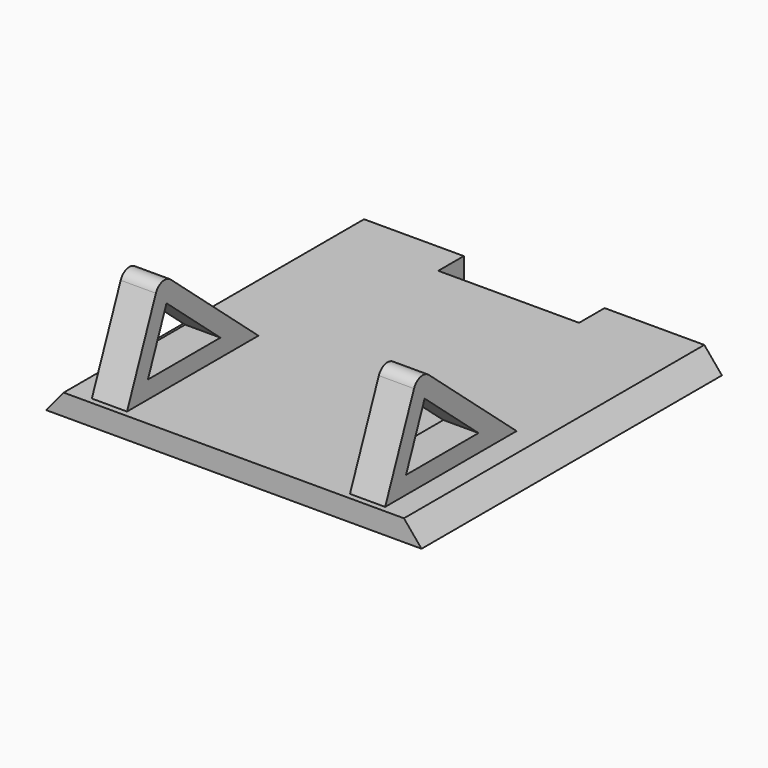
from build123d import *

# Parameters (mm, degrees)
F3_DEPTH = 16
F4_W     = 12
F4_H     = 2.84
F5_DEPTH = 25
F1_DEPTH = 12.5
F6_DEPTH = 9.5


with BuildPart() as f3:
    # F2 (on Front) → F3 (new body, symmetric)
    with BuildSketch(Plane.XZ):
        Polygon((0, 1.8), (0, 0), (16, 0), (14.5, 1.8), align=None)
        Polygon((-16, 0), (0, 0), (0, 1.8), (-14.5, 1.8), align=None)
    extrude(amount=F3_DEPTH, both=True)

    # F4 (on Top) → F5 (cut)
    with BuildSketch(Plane.XY):
        with Locations((0, 14.7)):
            Rectangle(F4_W, F4_H)
    extrude(amount=F5_DEPTH, mode=Mode.SUBTRACT)

    # F0 (on Right) → F1 (join, symmetric)
    with BuildSketch(Plane.YZ):
        with BuildLine():
            Line((-12.426555, 9.427268), (-15.5, 1.8))
            Line((-15.5, 1.8), (-1.5, 1.8))
            Line((-1.5, 1.8), (-10.848235, 9.812773))
            ThreePointArc((-10.848235, 9.812773), (-11.736301, 10.024959), (-12.426555, 9.427268))
        make_face()
        Polygon((-13.278367, 3.3), (-11.295587, 8.220601), (-5.554886, 3.3), align=None, mode=Mode.SUBTRACT)
    extrude(amount=F1_DEPTH, both=True)

    # F0 (on Right) → F6 (cut, symmetric)
    with BuildSketch(Plane.YZ):
        with BuildLine():
            Line((-12.426555, 9.427268), (-15.5, 1.8))
            Line((-15.5, 1.8), (-1.5, 1.8))
            Line((-1.5, 1.8), (-10.848235, 9.812773))
            ThreePointArc((-10.848235, 9.812773), (-11.736301, 10.024959), (-12.426555, 9.427268))
        make_face()
        Polygon((-13.278367, 3.3), (-11.295587, 8.220601), (-5.554886, 3.3), align=None, mode=Mode.SUBTRACT)
        with BuildLine():
            Line((-15.5, 11.625779), (-15.5, 1.8))
            Line((-15.5, 1.8), (-12.426555, 9.427268))
            ThreePointArc((-12.426555, 9.427268), (-11.736301, 10.024959), (-10.848235, 9.812773))
            Line((-10.848235, 9.812773), (-13.849209, 12.385036))
            ThreePointArc((-13.849209, 12.385036), (-14.917857, 12.534292), (-15.5, 11.625779))
        make_face()
    extrude(amount=F6_DEPTH, both=True, mode=Mode.SUBTRACT)


solid = f3.part
